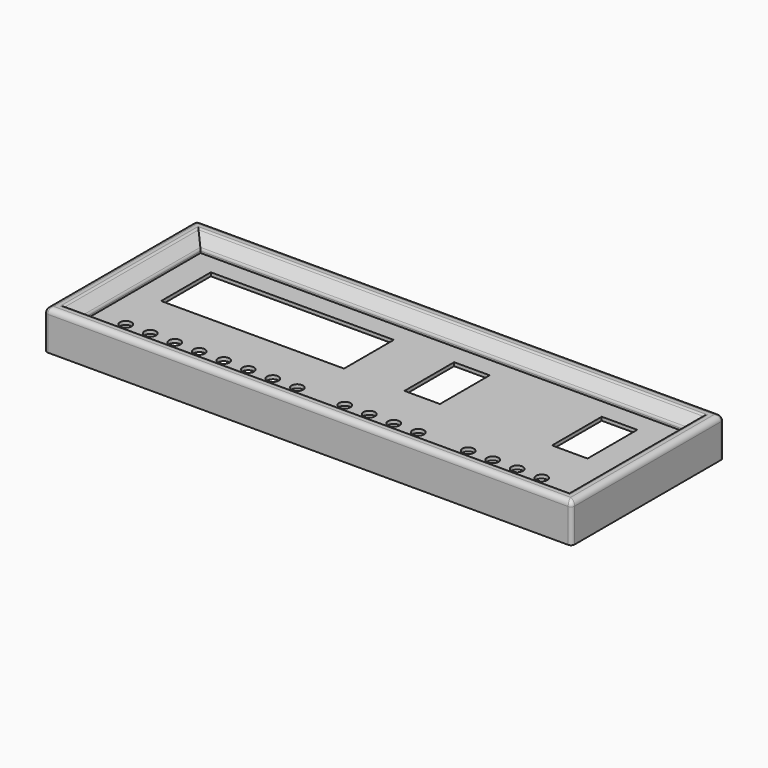
from build123d import *

# Parameters (mm, degrees)
SKETCH_W        = 293
SKETCH_H        = 103
PAD_DEPTH       = 20
SKETCH001_W     = 277
SKETCH001_H     = 87
POCKET_DEPTH    = 8
CHAMFER_SIZE    = 5
FILLET_R        = 1
THICKNESS_T     = 2
SKETCH003_W     = 103
SKETCH003_H     = 35
SKETCH003_W_2   = 20
POCKET002_DEPTH = 5
SKETCH004_R     = 3.25
POCKET003_DEPTH = 2


with BuildPart() as part:
    # Sketch → Pad (new body)
    with BuildSketch(Plane.XY):
        with Locations((146.5, 51.5)):
            Rectangle(SKETCH_W, SKETCH_H)
    extrude(amount=PAD_DEPTH)

    # Sketch001 (on Face6 of Pad) → Pocket (cut)
    with BuildSketch(Plane.XY.offset(20)):
        with Locations((146.5, 51.5)):
            Rectangle(SKETCH001_W, SKETCH001_H)
    extrude(amount=-POCKET_DEPTH, mode=Mode.SUBTRACT)

    # Chamfer
    chamfer_edges = [part.edges().sort_by_distance(p)[0] for p in [
        (8, 51.5, 20),
        (146.5, 95, 20),
        (146.5, 8, 20),
        (285, 51.5, 20),
    ]]
    chamfer(chamfer_edges, length=CHAMFER_SIZE)

    # Fillet
    fillet_edges = [part.edges().sort_by_distance(p)[0] for p in [
        (146.5, 0, 20),
        (0, 51.5, 20),
        (146.5, 103, 20),
        (293, 51.5, 20),
    ]]
    fillet(fillet_edges, radius=FILLET_R)

    # Thickness
    thickness_openings = [part.faces().sort_by_distance(p)[0] for p in [
        (146.5, 51.5, 0),
    ]]
    offset(amount=THICKNESS_T, openings=thickness_openings)

    # Sketch003 → Pocket002 (cut)
    with BuildSketch(Plane.XY.offset(14)):
        with Locations((76.5, 64)):
            Rectangle(SKETCH003_W, SKETCH003_H)
        with Locations((172, 64)):
            Rectangle(SKETCH003_W_2, SKETCH003_H)
        with Locations((255.1, 64)):
            Rectangle(SKETCH003_W_2, SKETCH003_H)
    extrude(amount=-POCKET002_DEPTH, mode=Mode.SUBTRACT)

    # Sketch004 (on Face48 of Pocket002) → Pocket003 (cut)
    with BuildSketch(Plane.XY.offset(14)):
        with Locations((26.7, 19.5)):
            Circle(SKETCH004_R)
        with Locations((40.5, 19.5)):
            Circle(SKETCH004_R)
        with Locations((54.3, 19.5)):
            Circle(SKETCH004_R)
        with Locations((68.1, 19.5)):
            Circle(SKETCH004_R)
        with Locations((81.9, 19.5)):
            Circle(SKETCH004_R)
        with Locations((95.7, 19.5)):
            Circle(SKETCH004_R)
        with Locations((109.5, 19.5)):
            Circle(SKETCH004_R)
        with Locations((123.3, 19.5)):
            Circle(SKETCH004_R)
        with Locations((150, 19.5)):
            Circle(SKETCH004_R)
        with Locations((163.8, 19.5)):
            Circle(SKETCH004_R)
        with Locations((177.6, 19.5)):
            Circle(SKETCH004_R)
        with Locations((191.4, 19.5)):
            Circle(SKETCH004_R)
        with Locations((219.5, 19.5)):
            Circle(SKETCH004_R)
        with Locations((233.3, 19.5)):
            Circle(SKETCH004_R)
        with Locations((247.1, 19.5)):
            Circle(SKETCH004_R)
        with Locations((260.9, 19.5)):
            Circle(SKETCH004_R)
    extrude(amount=-POCKET003_DEPTH, mode=Mode.SUBTRACT)


solid = part.part
